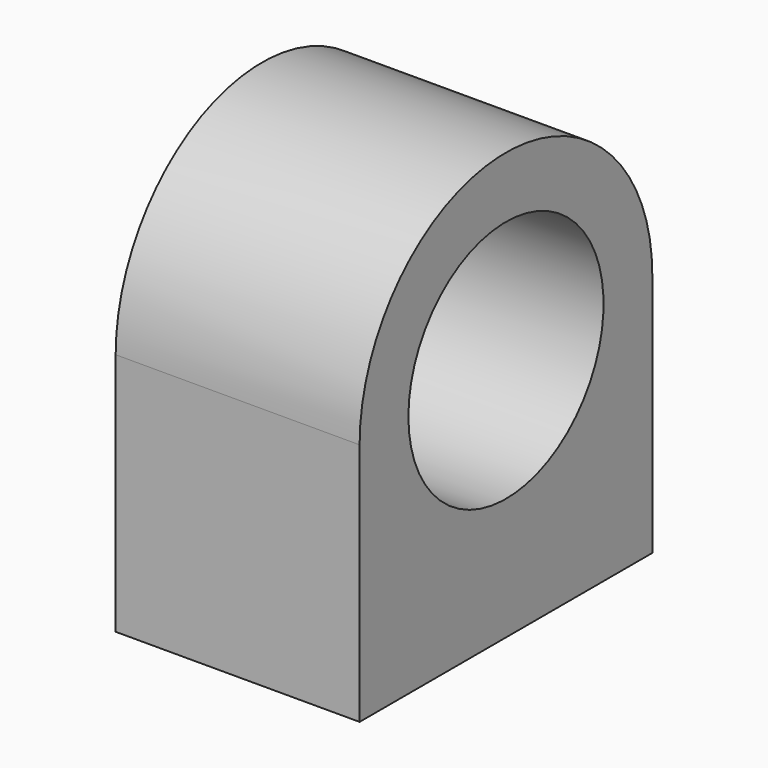
from build123d import *

# Parameters (mm, degrees)
F1_DEPTH = 25.4
F3_D     = 6.35
F3_DEPTH = 12.7
F3_TIP   = 1.9077324654


with BuildPart() as f1:
    # F0 (on Right) → F1 (new body)
    with BuildSketch(Plane.YZ):
        with BuildLine():
            Line((19.05, 0), (12.7, 0))
            ThreePointArc((12.7, 0), (0, -12.7), (-12.7, 0))
            Line((-12.7, 0), (-19.05, 0))
            Line((-19.05, 0), (-19.05, -25.4))
            Line((-19.05, -25.4), (19.05, -25.4))
            Line((19.05, -25.4), (19.05, 0))
        make_face()
        with BuildLine():
            ThreePointArc((-12.7, 0), (0, 12.7), (12.7, 0))
            Line((12.7, 0), (19.05, 0))
            ThreePointArc((19.05, 0), (0, 19.05), (-19.05, 0))
            Line((-19.05, 0), (-12.7, 0))
        make_face()
    extrude(amount=F1_DEPTH)

    # F3
    with Locations(Plane(origin=(0, 0, -25.4), x_dir=(1, 0, 0), z_dir=(0, 0, -1))):
        with Locations((12.7, 12.7), (12.7, -12.7)):
            Hole(F3_D / 2, depth=F3_DEPTH)
            with Locations((0, 0, -(F3_DEPTH + F3_TIP / 2))):  # 118° drill point
                Cone(0, F3_D / 2, F3_TIP, mode=Mode.SUBTRACT)


solid = f1.part
